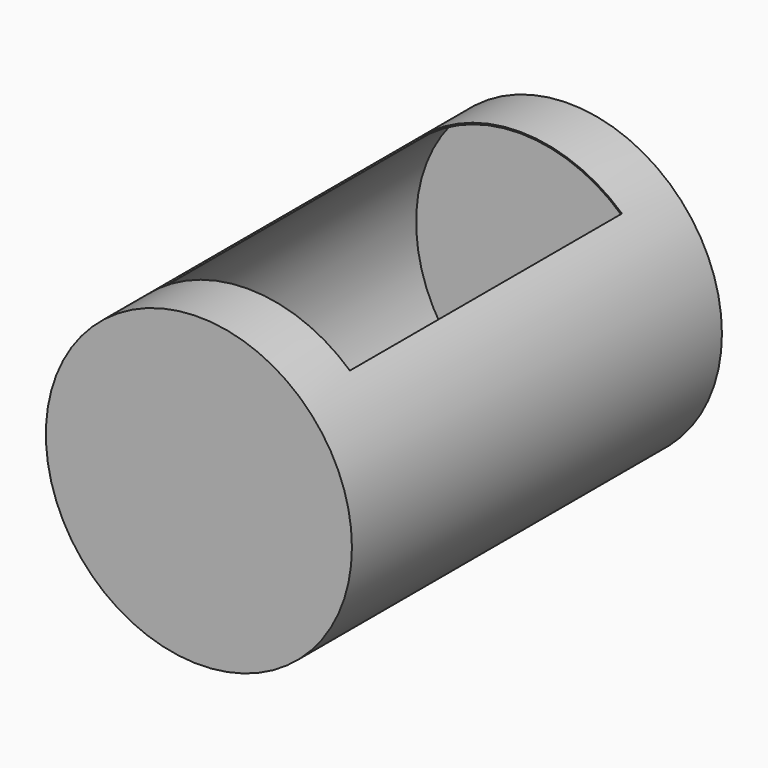
from build123d import *

# Parameters (mm, degrees)
F0_R     = 285.75
F1_DEPTH = 431.8
F2_W     = 381
F2_H     = 635
F3_DEPTH = 452.12
F4_T     = -2.54


with BuildPart() as f1:
    # F0 (on Front) → F1 (new body, symmetric)
    with BuildSketch(Plane.XZ):
        Circle(F0_R)
    extrude(amount=F1_DEPTH, both=True)

    # F2 (on Top) → F3 (cut)
    with BuildSketch(Plane.XY):
        Rectangle(F2_W, F2_H)
    extrude(amount=F3_DEPTH, mode=Mode.SUBTRACT)

    # F4
    f4_openings = [f1.faces().sort_by_distance(p)[0] for p in [
        (0, 317.5, 132.295443),
        (-190.5, 0, 106.492737),
        (0, 0, 0),
        (0, -317.5, 132.295443),
        (190.5, 0, 106.492737),
    ]]
    offset(amount=F4_T, openings=f4_openings)


solid = f1.part
